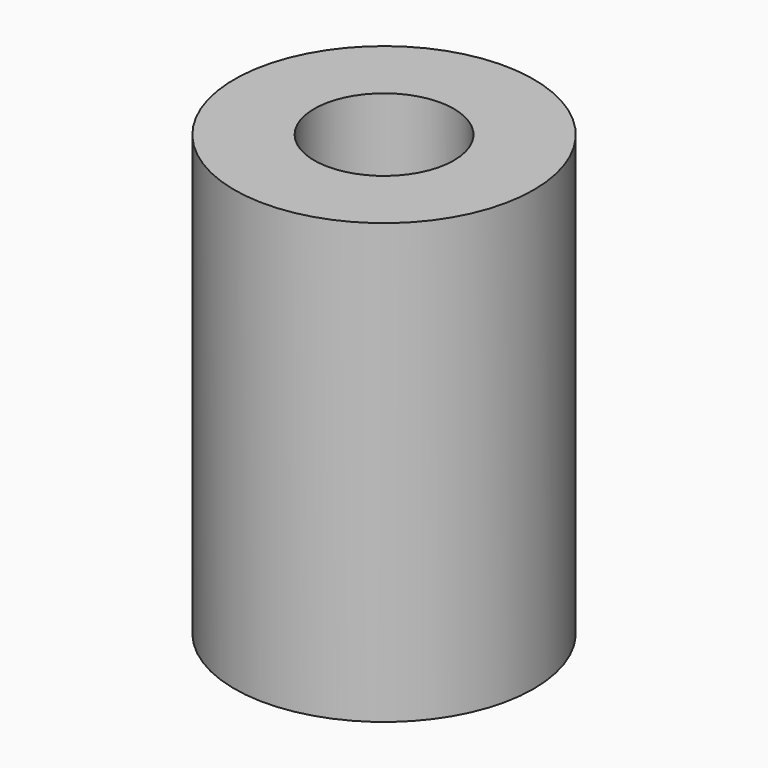
from build123d import *

# Parameters (mm, degrees)
SKETCH_R   = 3.75
SKETCH_R_2 = 1.75
PAD_DEPTH  = 11


with BuildPart() as part:
    # Sketch → Pad (new body)
    with BuildSketch(Plane.XY):
        Circle(SKETCH_R)
        Circle(SKETCH_R_2, mode=Mode.SUBTRACT)
    extrude(amount=PAD_DEPTH)


solid = part.part
